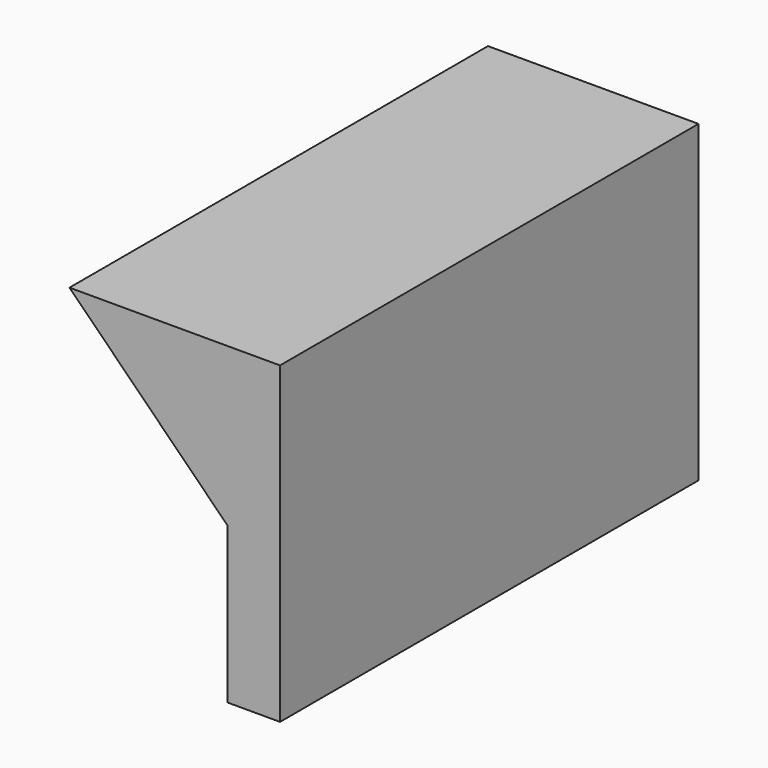
from build123d import *

# Parameters (mm, degrees)
F1_DEPTH = 95.25
F3_DEPTH = 254


with BuildPart() as f1:
    # F0 (on Front) → F1 (new body)
    with BuildSketch(Plane.XZ):
        with BuildLine():
            ThreePointArc((-14.859, 9.525), (-8.1238079092, 6.7351920908), (-5.334, 0))
            Line((-5.334, 0), (0, 0))
            Line((0, 0), (0, 14.478))
            Line((0, 14.478), (-7.0534642899, 24.0155104094))
            Line((-7.0534642899, 24.0155104094), (-9.095662208, 22.5052032674))
            Line((-9.095662208, 22.5052032674), (-24.1987336282, 42.9271824486))
            Line((-24.1987336282, 42.9271824486), (-22.1565357101, 44.4374895906))
            Line((-22.1565357101, 44.4374895906), (-29.21, 53.975))
            Line((-29.21, 53.975), (-38.1, 53.975))
            Line((-38.1, 53.975), (-38.1, 41.656))
            add(Edge.make_bspline(
                [(-38.1, 41.656), (-28.1570851803, 39.6384932101), (-30.2785540843, 24.9129260063), (-23.0376143008, 14.3336839974), (-14.859, 14.605)],
                knots=[0, 0, 0, 0, 0.513981523, 1, 1, 1, 1], degree=3))
            Line((-14.859, 14.605), (-14.859, 9.525))
        make_face()
    extrude(amount=F1_DEPTH)


with BuildPart() as f3:
    # F2 (on Front) → F3 (new body)
    with BuildSketch(Plane.XZ):
        Polygon((0, 24.765), (0, -50.8), (25.4, -50.8), (25.4, 101.6), (-76.835, 101.6), align=None)
    extrude(amount=F3_DEPTH)


with BuildPart() as f5_1:
    # F5: copy of F1
    add(f1.part)


with BuildPart() as f6_1:
    # F6: copy of F1
    add(f1.part)


solid = Compound([f1.part, f3.part])
